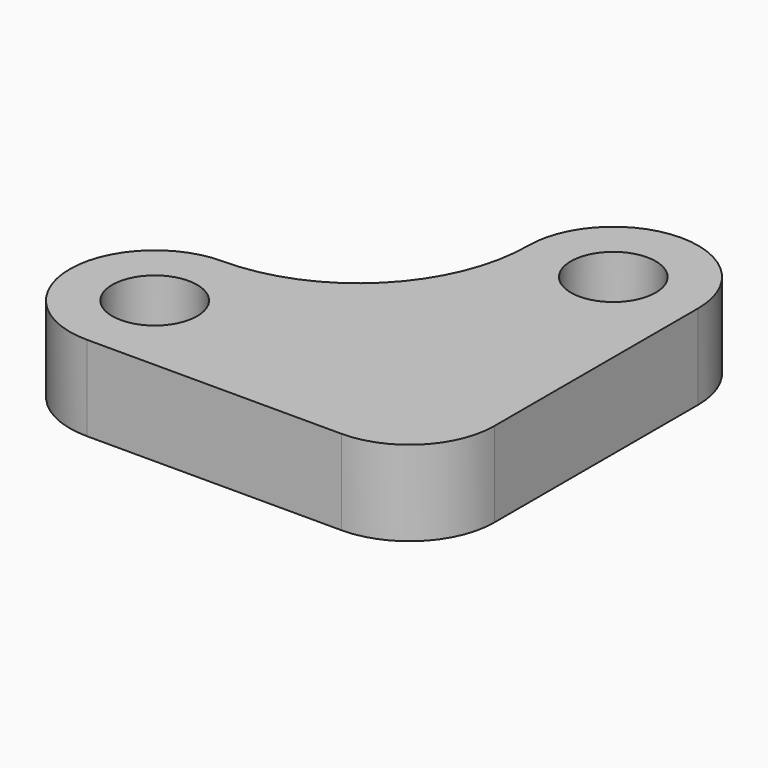
from build123d import *

# Parameters (mm, degrees)
F0_R     = 2.5
F1_DEPTH = 5


with BuildPart() as f1:
    # F0 (on Top) → F1 (new body)
    with BuildSketch(Plane.XY):
        with BuildLine():
            ThreePointArc((-12.5, 0), (-16.767767, 1.767767), (-15, -2.5))
            ThreePointArc((-15, -2.5), (-13.232233, -1.767767), (-12.5, 0))
        make_face()
        with BuildLine():
            Line((5, 0), (5, 15))
            ThreePointArc((5, 15), (0, 20), (-5, 15))
            ThreePointArc((-5, 15), (-7.928932, 7.928932), (-15, 5))
            ThreePointArc((-15, 5), (-20, 0), (-15, -5))
            Line((-15, -5), (0, -5))
            ThreePointArc((0, -5), (3.535534, -3.535534), (5, 0))
        make_face()
        with BuildLine():
            ThreePointArc((-12.5, 0), (-13.232233, -1.767767), (-15, -2.5))
            ThreePointArc((-15, -2.5), (-16.767767, 1.767767), (-12.5, 0))
        make_face(mode=Mode.SUBTRACT)
        with Locations((0, 15)):
            Circle(F0_R, mode=Mode.SUBTRACT)
    extrude(amount=F1_DEPTH)


solid = f1.part
